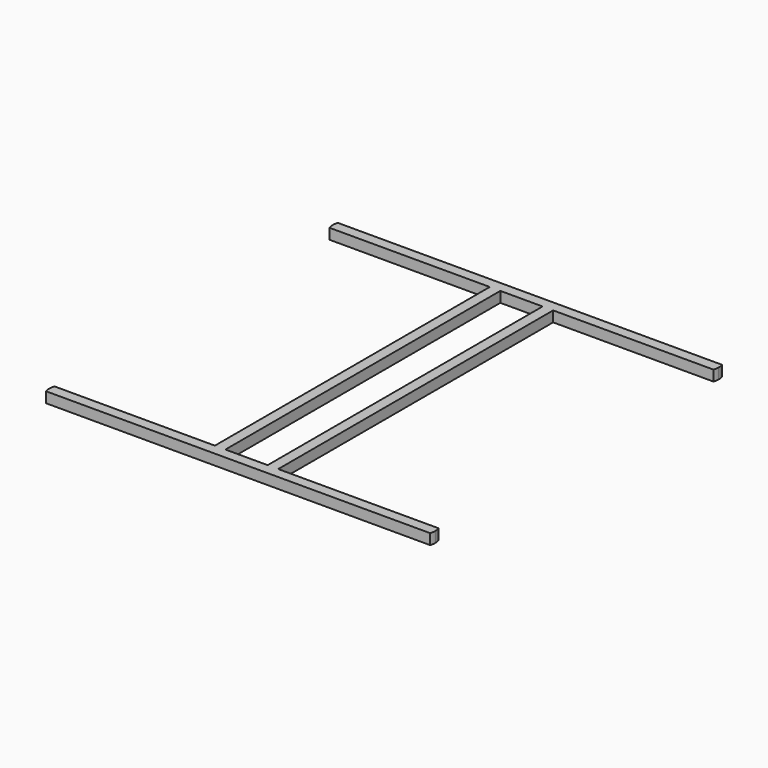
from build123d import *

# Parameters (mm, degrees)
F0_W     = 10
F0_H     = 325.292
F1_DEPTH = 10


with BuildPart() as f1:
    # F0 (on Top) → F1 (new body)
    with BuildSketch(Plane.XY):
        with BuildLine():
            ThreePointArc((-40.6462298632, -167.646), (-40.6708480908, -165.1455152953), (-40.7446932294, -162.646))
            Line((-40.7446932294, -162.646), (-153.5040942394, -162.646))
            ThreePointArc((-153.5040942394, -162.646), (-152.8622514684, -165.1094703191), (-152.6462298632, -167.646))
            ThreePointArc((-152.6462298632, -167.646), (-152.8622514684, -170.1825296809), (-153.5040942394, -172.646))
            Line((-153.5040942394, -172.646), (-40.7446932294, -172.646))
            ThreePointArc((-40.7446932294, -172.646), (-40.6708480908, -170.1464847047), (-40.6462298632, -167.646))
        make_face()
        with BuildLine():
            Line((-20, -162.646), (-30, -162.646))
            Line((-30, -162.646), (-40.7446932294, -162.646))
            ThreePointArc((-40.7446932294, -162.646), (-40.6708480908, -165.1455152953), (-40.6462298632, -167.646))
            ThreePointArc((-40.6462298632, -167.646), (-40.6708480908, -170.1464847047), (-40.7446932294, -172.646))
            Line((-40.7446932294, -172.646), (0, -172.646))
            Line((0, -172.646), (40.7446932294, -172.646))
            ThreePointArc((40.7446932294, -172.646), (40.6462298632, -167.646), (40.7446932294, -162.646))
            Line((40.7446932294, -162.646), (30, -162.646))
            Line((30, -162.646), (20, -162.646))
            Line((20, -162.646), (0, -162.646))
            Line((0, -162.646), (-20, -162.646))
        make_face()
        with BuildLine():
            ThreePointArc((40.7446932294, -162.646), (40.6462298632, -167.646), (40.7446932294, -172.646))
            Line((40.7446932294, -172.646), (153.5040942394, -172.646))
            ThreePointArc((153.5040942394, -172.646), (152.6462298632, -167.646), (153.5040942394, -162.646))
            Line((153.5040942394, -162.646), (40.7446932294, -162.646))
        make_face()
        with BuildLine():
            ThreePointArc((153.5040942394, -162.646), (152.6462298632, -167.646), (153.5040942394, -172.646))
            Line((153.5040942394, -172.646), (181.7883654869, -172.646))
            ThreePointArc((181.7883654869, -172.646), (182.430208258, -170.1825296809), (182.6462298632, -167.646))
            ThreePointArc((182.6462298632, -167.646), (182.430208258, -165.1094703191), (181.7883654869, -162.646))
            Line((181.7883654869, -162.646), (153.5040942394, -162.646))
        make_face()
        with BuildLine():
            ThreePointArc((-152.6462298632, -167.646), (-152.8622514684, -165.1094703191), (-153.5040942394, -162.646))
            Line((-153.5040942394, -162.646), (-181.7883654869, -162.646))
            ThreePointArc((-181.7883654869, -162.646), (-182.430208258, -165.1094703191), (-182.6462298632, -167.646))
            ThreePointArc((-182.6462298632, -167.646), (-182.430208258, -170.1825296809), (-181.7883654869, -172.646))
            Line((-181.7883654869, -172.646), (-153.5040942394, -172.646))
            ThreePointArc((-153.5040942394, -172.646), (-152.8622514684, -170.1825296809), (-152.6462298632, -167.646))
        make_face()
        with Locations((-25, 0)):
            Rectangle(F0_W, F0_H)
        with Locations((25, 0)):
            Rectangle(F0_W, F0_H)
        with BuildLine():
            Line((153.5040942394, 172.646), (40.7446932294, 172.646))
            ThreePointArc((40.7446932294, 172.646), (40.6462298632, 167.646), (40.7446932294, 162.646))
            Line((40.7446932294, 162.646), (153.5040942394, 162.646))
            ThreePointArc((153.5040942394, 162.646), (152.6462298632, 167.646), (153.5040942394, 172.646))
        make_face()
        with BuildLine():
            Line((0, 172.646), (0, 162.646))
            Line((0, 162.646), (20, 162.646))
            Line((20, 162.646), (30, 162.646))
            Line((30, 162.646), (40.7446932294, 162.646))
            ThreePointArc((40.7446932294, 162.646), (40.6462298632, 167.646), (40.7446932294, 172.646))
            Line((40.7446932294, 172.646), (0, 172.646))
        make_face()
        with BuildLine():
            Line((-40.7446932294, 162.646), (-30, 162.646))
            Line((-30, 162.646), (-20, 162.646))
            Line((-20, 162.646), (0, 162.646))
            Line((0, 162.646), (0, 172.646))
            Line((0, 172.646), (-40.7446932294, 172.646))
            ThreePointArc((-40.7446932294, 172.646), (-40.6708480908, 170.1464847047), (-40.6462298632, 167.646))
            ThreePointArc((-40.6462298632, 167.646), (-40.6708480908, 165.1455152953), (-40.7446932294, 162.646))
        make_face()
        with BuildLine():
            Line((-153.5040942394, 162.646), (-40.7446932294, 162.646))
            ThreePointArc((-40.7446932294, 162.646), (-40.6708480908, 165.1455152953), (-40.6462298632, 167.646))
            ThreePointArc((-40.6462298632, 167.646), (-40.6708480908, 170.1464847047), (-40.7446932294, 172.646))
            Line((-40.7446932294, 172.646), (-153.5040942394, 172.646))
            ThreePointArc((-153.5040942394, 172.646), (-152.8622514684, 170.1825296809), (-152.6462298632, 167.646))
            ThreePointArc((-152.6462298632, 167.646), (-152.8622514684, 165.1094703191), (-153.5040942394, 162.646))
        make_face()
        with BuildLine():
            Line((-181.7883654869, 162.646), (-153.5040942394, 162.646))
            ThreePointArc((-153.5040942394, 162.646), (-152.8622514684, 165.1094703191), (-152.6462298632, 167.646))
            ThreePointArc((-152.6462298632, 167.646), (-152.8622514684, 170.1825296809), (-153.5040942394, 172.646))
            Line((-153.5040942394, 172.646), (-181.7883654869, 172.646))
            ThreePointArc((-181.7883654869, 172.646), (-182.430208258, 170.1825296809), (-182.6462298632, 167.646))
            ThreePointArc((-182.6462298632, 167.646), (-182.430208258, 165.1094703191), (-181.7883654869, 162.646))
        make_face()
        with BuildLine():
            Line((181.7883654869, 172.646), (153.5040942394, 172.646))
            ThreePointArc((153.5040942394, 172.646), (152.6462298632, 167.646), (153.5040942394, 162.646))
            Line((153.5040942394, 162.646), (181.7883654869, 162.646))
            ThreePointArc((181.7883654869, 162.646), (182.430208258, 165.1094703191), (182.6462298632, 167.646))
            ThreePointArc((182.6462298632, 167.646), (182.430208258, 170.1825296809), (181.7883654869, 172.646))
        make_face()
    extrude(amount=F1_DEPTH)


solid = f1.part
